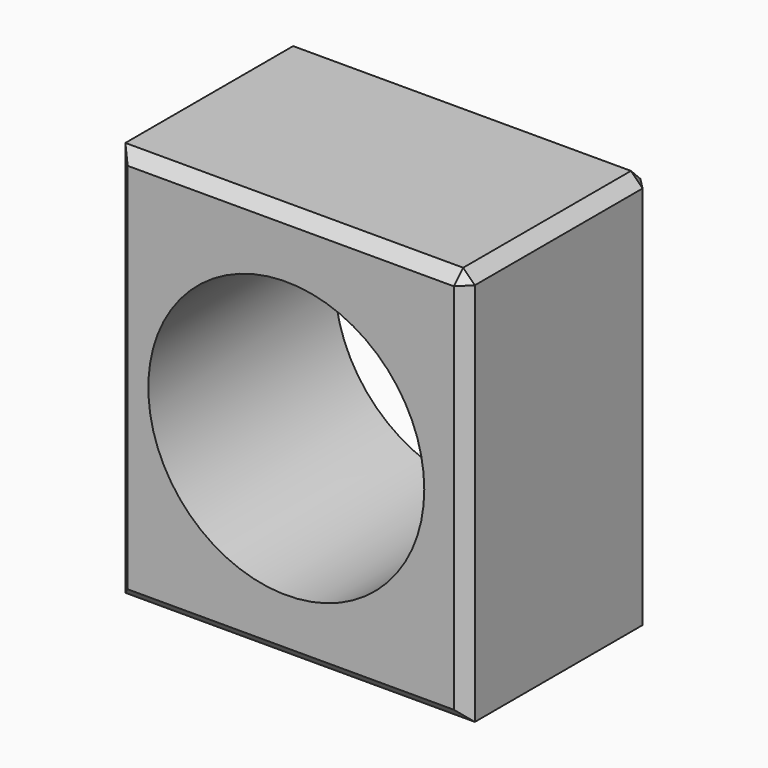
from build123d import *

# Parameters (mm, degrees)
F0_W     = 152.4
F0_H     = 172.720005
F1_DEPTH = 101.6
F2_R     = 60.170779
F3_DEPTH = 101.601
F4_SIZE  = 5.08


with BuildPart() as f1:
    # F0 (on Front) → F1 (new body)
    with BuildSketch(Plane.XZ):
        with Locations((10.828421, 0.902369)):
            Rectangle(F0_W, F0_H)
    extrude(amount=F1_DEPTH)

    # F2 (on face) → F3 (cut, through all)
    with BuildSketch(Plane.XZ.offset(101.6)):
        with Locations((8.857357, 0)):
            Circle(F2_R)
    extrude(amount=-F3_DEPTH, mode=Mode.SUBTRACT)

    # F4
    f4_edges = [f1.edges().sort_by_distance(p)[0] for p in [
        (87.028421, -101.6, 0.90237),
        (10.828421, -101.6, 87.262372),
        (10.828421, -101.6, -85.457633),
        (-65.371579, -101.6, 0.90237),
        (10.828421, 0, -85.457633),
        (-65.371579, 0, 0.90237),
        (87.028421, 0, 0.90237),
        (10.828421, 0, 87.262372),
        (87.028421, -50.8, 87.262372),
    ]]
    chamfer(f4_edges, length=F4_SIZE)


solid = f1.part
